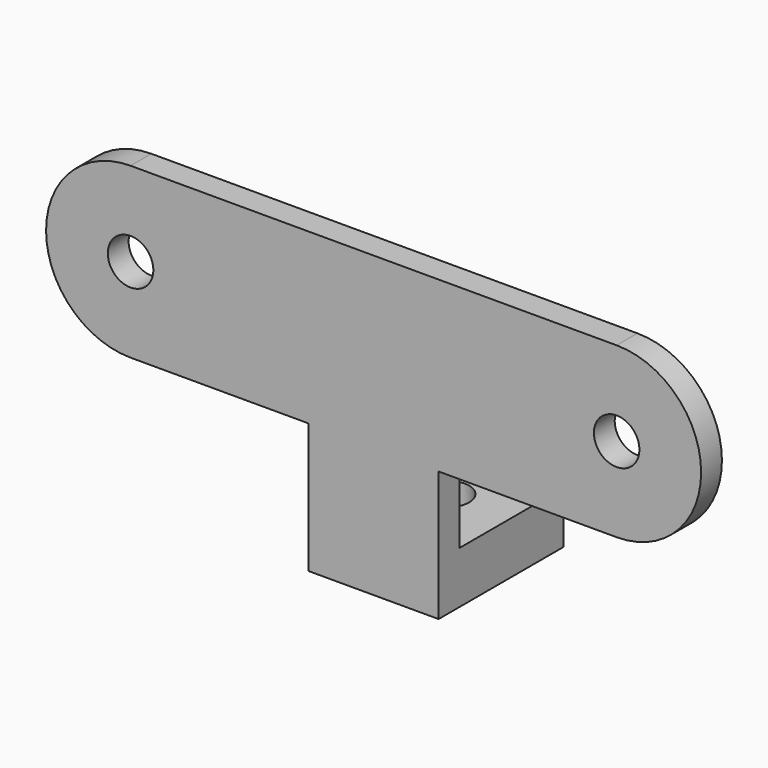
from build123d import *

# Parameters (mm, degrees)
SKETCH066_R             = 1.75
PAD046_DEPTH            = 2
SKETCH067_W             = 10
SKETCH067_H             = 2
PAD047_DEPTH            = 10
SKETCH068_W             = 10
SKETCH068_H             = 4
PAD048_DEPTH            = 10
SKETCH069_R             = 1.75
POCKET012_DEPTH         = 4.001
BODY015_PLACEMENT_ANGLE = 180


with BuildPart() as part:
    # Sketch066 → Pad046 (new body)
    with BuildSketch(Plane.XZ):
        with BuildLine():
            Line((-18.7, 6.5), (18.7, 6.5))
            ThreePointArc((18.7, -6.5), (25.2, 0), (18.7, 6.5))
            Line((18.7, -6.5), (-18.7, -6.5))
            ThreePointArc((-18.7, 6.5), (-25.2, 0), (-18.7, -6.5))
        make_face()
        with Locations((-18.7, 0)):
            Circle(SKETCH066_R, mode=Mode.SUBTRACT)
        with Locations((18.7, 0)):
            Circle(SKETCH066_R, mode=Mode.SUBTRACT)
    extrude(amount=PAD046_DEPTH)

    # Sketch067 (on Face1 of Pad046) → Pad047 (join)
    with BuildSketch(Plane(origin=(0, 0, -6.5), x_dir=(1, 0, 0), z_dir=(0, 0, -1))):
        with Locations((0, 1)):
            Rectangle(SKETCH067_W, SKETCH067_H)
    extrude(amount=PAD047_DEPTH)

    # Sketch068 (on Face12 of Pad047) → Pad048 (join)
    with BuildSketch(Plane.XZ.offset(2)):
        with Locations((0, -14.5)):
            Rectangle(SKETCH068_W, SKETCH068_H)
    extrude(amount=PAD048_DEPTH)

    # Sketch069 (on Face16 of Pad048) → Pocket012 (cut, through all)
    with BuildSketch(Plane(origin=(0, 0, -12.5), x_dir=(-1, 0, 0), z_dir=(0, 0, 1))):
        with Locations((0, 7)):
            Circle(SKETCH069_R)
    extrude(amount=-POCKET012_DEPTH, mode=Mode.SUBTRACT)


with BuildPart() as part_1:
    # Body015 placement: moved
    add(part.part.moved(Location((-82.5, 61.5, 20))).rotate(Axis((-82.5, 61.5, 20), (0, 0, 1)), BODY015_PLACEMENT_ANGLE))


solid = part_1.part
